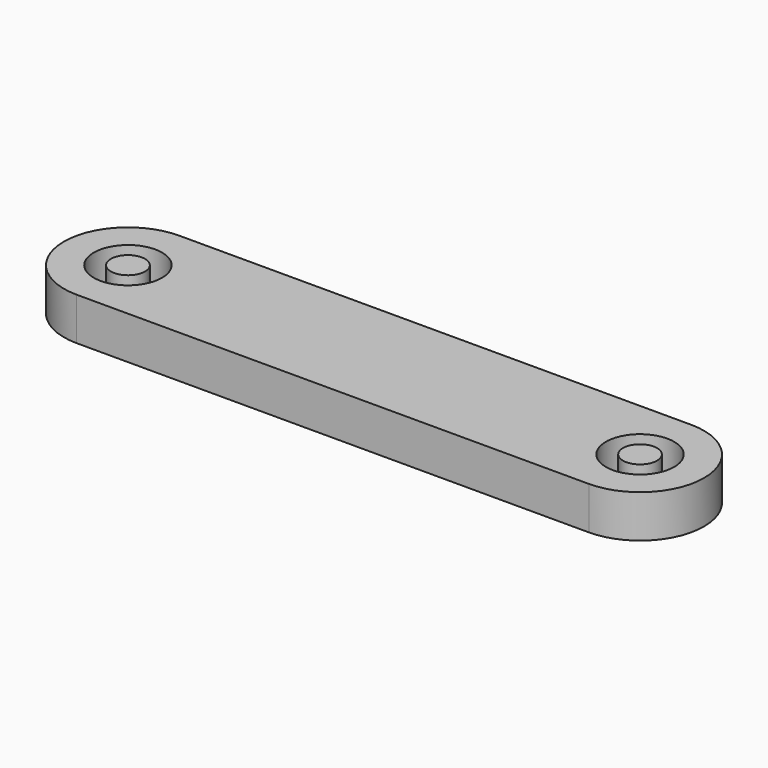
from build123d import *

# Parameters (mm, degrees)
F0_R     = 4
F1_DEPTH = 5
F2_R     = 2
F3_DEPTH = 5


with BuildPart() as f1:
    # F0 (on Top) → F1 (new body)
    with BuildSketch(Plane.XY):
        with BuildLine():
            Line((60, 7.5), (0, 7.5))
            ThreePointArc((0, 7.5), (-7.5, 0), (0, -7.5))
            Line((0, -7.5), (60, -7.5))
            ThreePointArc((60, -7.5), (67.5, 0), (60, 7.5))
        make_face()
        Circle(F0_R, mode=Mode.SUBTRACT)
        with Locations((60, 0)):
            Circle(F0_R, mode=Mode.SUBTRACT)
    extrude(amount=F1_DEPTH)


with BuildPart() as f3:
    # F2 (on Top) → F3 (new body)
    with BuildSketch(Plane.XY):
        Circle(F2_R)
        with Locations((60, 0)):
            Circle(F2_R)
    extrude(amount=F3_DEPTH)


solid = Compound([f1.part, f3.part])
